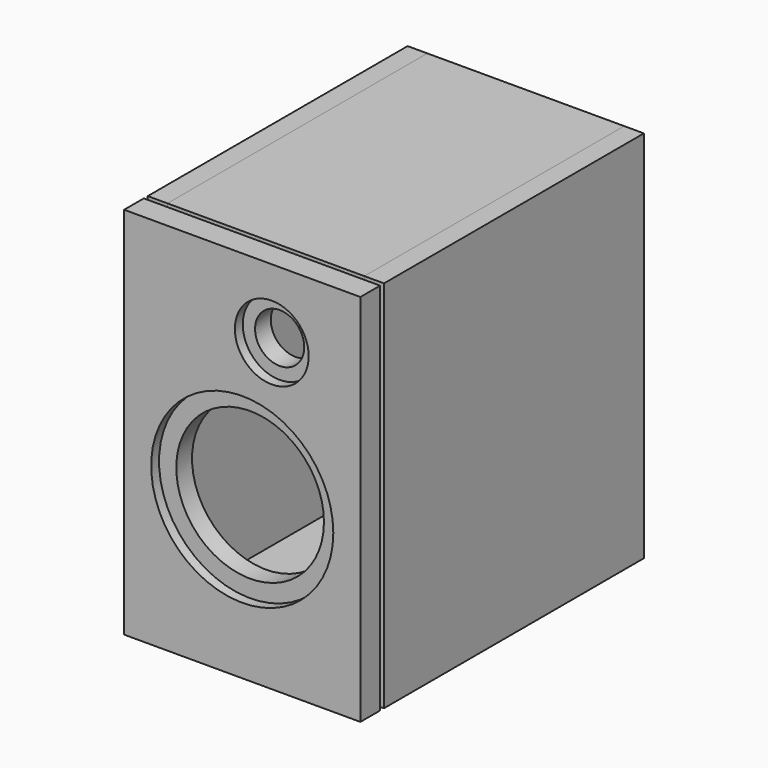
from build123d import *

# Parameters (mm, degrees)
F0_W              = 152.4
F0_H              = 241.3
F1_DEPTH          = 19.05
F2_R              = 23.8125
F2_R_2            = 15.875
F2_R_3            = 58.7375
F2_R_4            = 47.625
F3_DEPTH          = 6.35
F4_DEPTH          = 19.051
F5_W              = 127
F5_H              = 12.7
F6_DEPTH          = 209.55
F7_DEPTH          = 209.55
F8_DEPTH          = 209.55
F9_DEPTH          = 209.55
F11_W             = 114.3
F11_H             = 203.2
F11_W_2           = 88.9
F11_H_2           = 184.15
F12_DEPTH         = 19.05
F13_W             = 114.3
F13_H             = 203.2
F14_DEPTH         = 19.304
F16_D             = 4.4958
F16_DEPTH         = 38.1
F16_CSINK_D       = 9.1186
F16_CSINK_ANGLE   = 82
F16_TIP           = 1.3506745855
F16_2_D           = 4.4958
F16_2_DEPTH       = 38.1
F16_2_CSINK_D     = 9.1186
F16_2_CSINK_ANGLE = 82
F16_2_TIP         = 1.3506745855
F17_DEPTH         = 3.175


with BuildPart() as f1:
    # F0 (on Front) → F1 (new body)
    with BuildSketch(Plane.XZ):
        with Locations((76.2, 120.65)):
            Rectangle(F0_W, F0_H)
    extrude(amount=F1_DEPTH)

    # F2 (on face) → F3 (cut)
    with BuildSketch(Plane.XZ.offset(19.05)):
        with Locations((95.25, 196.85)):
            Circle(F2_R)
        with Locations((95.25, 196.85)):
            Circle(F2_R_2, mode=Mode.SUBTRACT)
        with Locations((76.2, 101.6)):
            Circle(F2_R_3)
        with Locations((76.2, 101.6)):
            Circle(F2_R_4, mode=Mode.SUBTRACT)
    extrude(amount=-F3_DEPTH, mode=Mode.SUBTRACT)

    # F4 (cut, through all): faces of the model
    f4_faces = [f1.faces().sort_by_distance(p)[0] for p in [
        (76.2, -19.05, 101.6),
        (95.25, -19.05, 196.85),
    ]]
    extrude(f4_faces, amount=-F4_DEPTH, mode=Mode.SUBTRACT)

    # F5 (on face) → F17 (cut)
    with BuildSketch(Plane(origin=(0, 0, 0), x_dir=(-1, 0, 0), z_dir=(0, 1, 0))):
        with Locations((-76.2, 234.95)):
            Rectangle(F5_W, F5_H)
        Polygon((-139.7, 241.3), (-152.4, 241.3), (-152.4, 0), (-139.7, 0), (-139.7, 12.7), (-139.7, 228.6), align=None)
        Polygon((0, 241.3), (-12.7, 241.3), (-12.7, 228.6), (-12.7, 12.7), (-12.7, 0), (0, 0), align=None)
        with Locations((-76.2, 6.35)):
            Rectangle(F5_W, F5_H)
    extrude(amount=-F17_DEPTH, mode=Mode.SUBTRACT)


with BuildPart() as f6:
    # F5 (on face) → F6 (new body)
    with BuildSketch(Plane(origin=(0, 0, 0), x_dir=(-1, 0, 0), z_dir=(0, 1, 0))):
        with Locations((-76.2, 234.95)):
            Rectangle(F5_W, F5_H)
    extrude(amount=F6_DEPTH)


with BuildPart() as f7:
    # F5 (on face) → F7 (new body)
    with BuildSketch(Plane(origin=(0, 0, 0), x_dir=(-1, 0, 0), z_dir=(0, 1, 0))):
        Polygon((-139.7, 241.3), (-152.4, 241.3), (-152.4, 0), (-139.7, 0), (-139.7, 12.7), (-139.7, 228.6), align=None)
    extrude(amount=F7_DEPTH)


with BuildPart() as f8:
    # F5 (on face) → F8 (new body)
    with BuildSketch(Plane(origin=(0, 0, 0), x_dir=(-1, 0, 0), z_dir=(0, 1, 0))):
        Polygon((0, 241.3), (-12.7, 241.3), (-12.7, 228.6), (-12.7, 12.7), (-12.7, 0), (0, 0), align=None)
    extrude(amount=F8_DEPTH)


with BuildPart() as f9:
    # F5 (on face) → F9 (new body)
    with BuildSketch(Plane(origin=(0, 0, 0), x_dir=(-1, 0, 0), z_dir=(0, 1, 0))):
        with Locations((-76.2, 6.35)):
            Rectangle(F5_W, F5_H)
    extrude(amount=F9_DEPTH)


with BuildPart() as f12:
    # F11 (on offset) → F12 (new body)
    with BuildSketch(Plane.XZ.offset(-190.5)):
        with Locations((76.2, 120.65)):
            Rectangle(F11_W, F11_H)
        with Locations((76.2, 117.475)):
            Rectangle(F11_W_2, F11_H_2, mode=Mode.SUBTRACT)
    extrude(amount=F12_DEPTH)

    # F16
    with Locations(Plane(origin=(0, 209.804, 0), x_dir=(-1, 0, 0), z_dir=(0, 1, 0))):
        with Locations((-76.2, 215.900000307), (-127.000000307, 215.900000307), (-127.000000307, 120.65), (-127.000000307, 25.399999693), (-76.2, 25.399999693), (-25.399999693, 25.399999693), (-25.399999693, 120.65), (-25.399999693, 215.900000307)):
            CounterSinkHole(F16_D / 2, F16_CSINK_D / 2, depth=F16_DEPTH, counter_sink_angle=F16_CSINK_ANGLE)
            with Locations((0, 0, -(F16_DEPTH + F16_TIP / 2))):  # 118° drill point
                Cone(0, F16_D / 2, F16_TIP, mode=Mode.SUBTRACT)


with BuildPart() as f14:
    # F13 (on offset) → F14 (new body)
    with BuildSketch(Plane.XZ.offset(-190.5)):
        with Locations((76.2, 120.65)):
            Rectangle(F13_W, F13_H)
    extrude(amount=-F14_DEPTH)

    # F16#2
    with Locations(Plane(origin=(0, 209.804, 0), x_dir=(-1, 0, 0), z_dir=(0, 1, 0))):
        with Locations((-76.2, 215.900000307), (-127.000000307, 215.900000307), (-127.000000307, 120.65), (-127.000000307, 25.399999693), (-76.2, 25.399999693), (-25.399999693, 25.399999693), (-25.399999693, 120.65), (-25.399999693, 215.900000307)):
            CounterSinkHole(F16_2_D / 2, F16_2_CSINK_D / 2, depth=F16_2_DEPTH, counter_sink_angle=F16_2_CSINK_ANGLE)
            with Locations((0, 0, -(F16_2_DEPTH + F16_2_TIP / 2))):  # 118° drill point
                Cone(0, F16_2_D / 2, F16_2_TIP, mode=Mode.SUBTRACT)


solid = Compound([f1.part, f6.part, f7.part, f8.part, f9.part, f12.part, f14.part])
